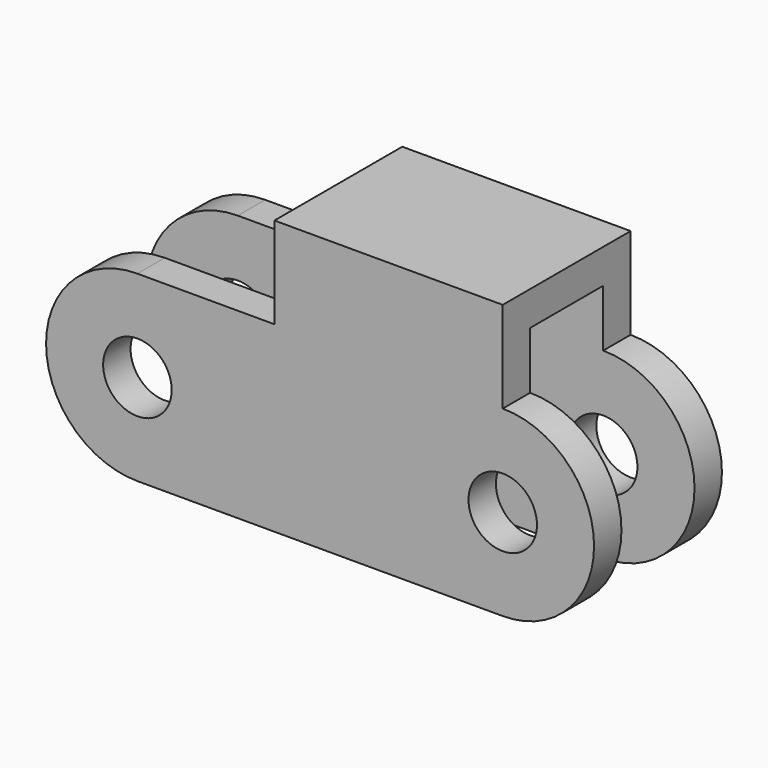
from build123d import *

# Parameters (mm, degrees)
F0_R     = 3
F0_W     = 20
F0_H     = 8
F1_DEPTH = 7
F2_W     = 8
F2_H     = 26
F3_DEPTH = 52.42457


with BuildPart() as f1:
    # F0 (on Front) → F1 (new body, symmetric)
    with BuildSketch(Plane.XZ):
        with BuildLine():
            ThreePointArc((-32, 8), (-40, 0), (-32, -8))
            Line((-32, -8), (0, -8))
            ThreePointArc((0, -8), (8, 0), (0, 8))
            Line((0, 8), (-20, 8))
            Line((-20, 8), (-32, 8))
        make_face()
        with Locations((-32, 0)):
            Circle(F0_R, mode=Mode.SUBTRACT)
        Circle(F0_R, mode=Mode.SUBTRACT)
        with Locations((-10, 12)):
            Rectangle(F0_W, F0_H)
    extrude(amount=F1_DEPTH, both=True)

    # F2 (on Right) → F3 (cut, symmetric)
    with BuildSketch(Plane.YZ):
        Rectangle(F2_W, F2_H)
    extrude(amount=F3_DEPTH, both=True, mode=Mode.SUBTRACT)


solid = f1.part
